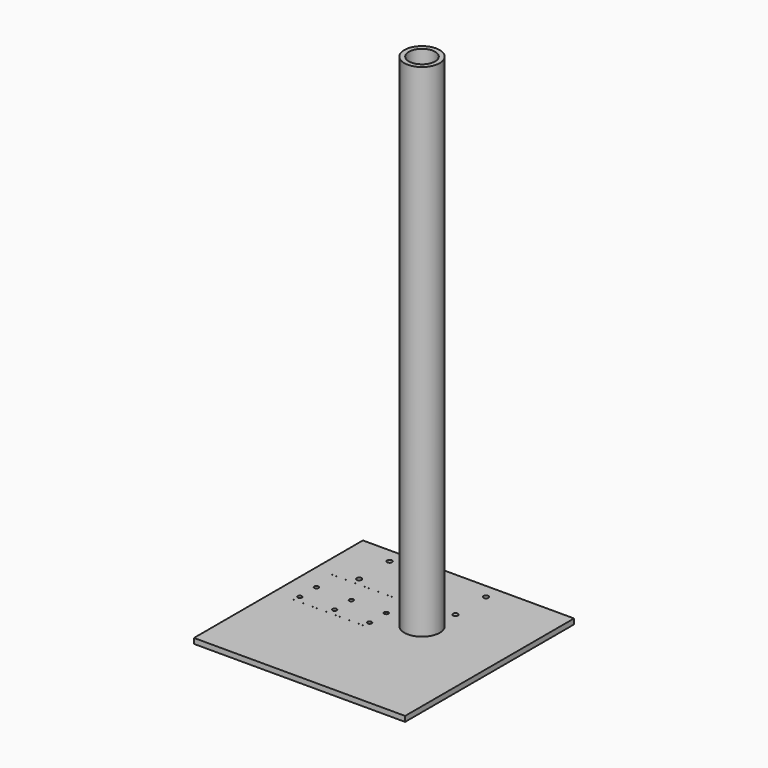
from build123d import *

# Parameters (mm, degrees)
F0_R     = 10.668
F0_R_2   = 7.8994
F1_DEPTH = 304.8
F2_W     = 127
F2_H     = 127
F2_R     = 10.668
F3_DEPTH = 3.175
F4_R     = 1.27
F4_W     = 46.830496
F4_H     = 0.0254
F5_DEPTH = 3.175
F6_R     = 1.5
F7_DEPTH = 3.175


with BuildPart() as f1:
    # F0 (on Top) → F1 (new body)
    with BuildSketch(Plane.XY):
        Circle(F0_R)
        Circle(F0_R_2, mode=Mode.SUBTRACT)
    extrude(amount=F1_DEPTH)


with BuildPart() as f3:
    # F2 (on face) → F3 (new body)
    with BuildSketch(Plane(origin=(0, 0, 0), x_dir=(1, 0, 0), z_dir=(0, 0, -1))):
        with Locations((-12.7, 12.7)):
            Rectangle(F2_W, F2_H)
        Circle(F2_R, mode=Mode.SUBTRACT)
    extrude(amount=-F3_DEPTH)

    # F4 (on face) → F5 (cut, through all)
    with BuildSketch(Plane(origin=(0, 0, 0), x_dir=(1, 0, 0), z_dir=(0, 0, -1))):
        with Locations((-63.5, 0)):
            Circle(F4_R)
        with Locations((-63.5, 12.5)):
            Circle(F4_R)
        with Locations((-42.5, 0)):
            Circle(F4_R)
        with Locations((-42.5, 12.5)):
            Circle(F4_R)
        with Locations((-21.5, 0)):
            Circle(F4_R)
        with Locations((-21.5, 12.5)):
            Circle(F4_R)
        with Locations((-42.564561, 16.602451)):
            Rectangle(F4_W, F4_H)
        with Locations((-42.564561, -14.537949)):
            Rectangle(F4_W, F4_H)
    extrude(amount=-F5_DEPTH, mode=Mode.SUBTRACT)

    # F6 (on face) → F7 (cut, through all)
    with BuildSketch(Plane(origin=(0, 0, 0), x_dir=(1, 0, 0), z_dir=(0, 0, -1))):
        with Locations((-53.11, -19.05)):
            Circle(F6_R)
        with Locations((-53.11, -42.05)):
            Circle(F6_R)
        with Locations((4.89, -19.05)):
            Circle(F6_R)
        with Locations((4.89, -42.05)):
            Circle(F6_R)
    extrude(amount=-F7_DEPTH, mode=Mode.SUBTRACT)


solid = Compound([f1.part, f3.part])
